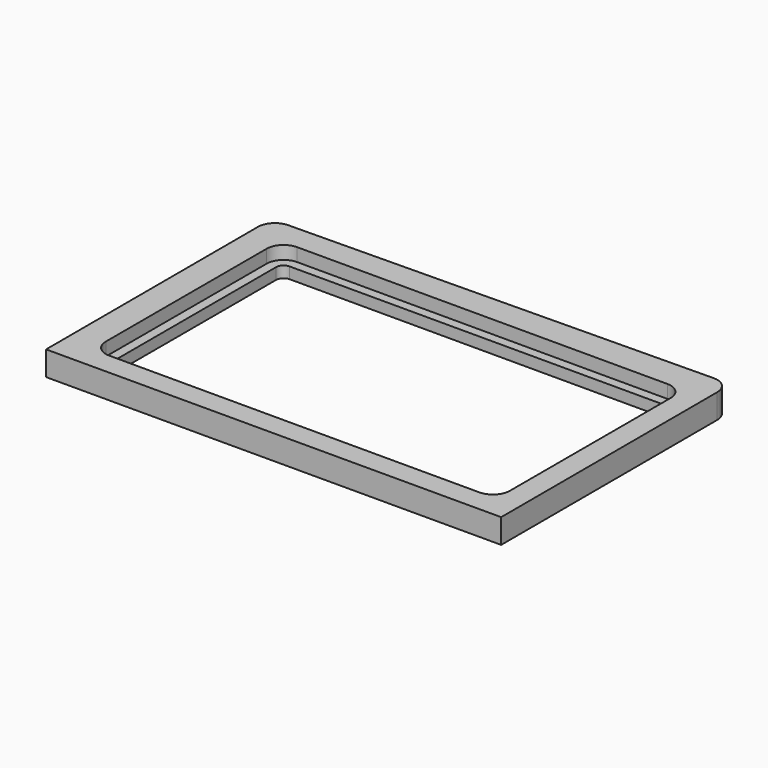
from build123d import *

# Parameters (mm, degrees)
F1_DEPTH = 13
F2_DEPTH = 6


with BuildPart() as f1:
    # F0 (on Top) → F1 (new body)
    with BuildSketch(Plane.XY):
        with BuildLine():
            Line((-128.226717, 65.178408), (-128.095499, -75.93241))
            Line((-128.095499, -75.93241), (113.904396, -75.707376))
            Line((113.904396, -75.707376), (113.770597, 68.1803))
            ThreePointArc((113.770597, 68.1803), (111.089038, 74.581091), (104.650671, 77.171132))
            Line((104.650671, 77.171132), (-119.34665, 74.185978))
            ThreePointArc((-119.34665, 74.185978), (-125.635881, 71.505215), (-128.226717, 65.178408))
        make_face()
        with BuildLine():
            Line((92.904501, -63.93241), (-104.095499, -63.93241))
            ThreePointArc((-104.095499, -63.93241), (-110.45946, -61.296371), (-113.095499, -54.93241))
            Line((-113.095499, -54.93241), (-113.095499, 52.06759))
            ThreePointArc((-113.095499, 52.06759), (-110.45946, 58.431551), (-104.095499, 61.06759))
            Line((-104.095499, 61.06759), (92.904501, 61.06759))
            ThreePointArc((92.904501, 61.06759), (99.268462, 58.431551), (101.904501, 52.06759))
            Line((101.904501, 52.06759), (101.904501, -54.93241))
            ThreePointArc((101.904501, -54.93241), (99.268462, -61.296371), (92.904501, -63.93241))
        make_face(mode=Mode.SUBTRACT)
    extrude(amount=F1_DEPTH)

    # F0 (on Top) → F2 (join)
    with BuildSketch(Plane.XY):
        with BuildLine():
            ThreePointArc((-113.095499, -54.93241), (-110.45946, -61.296371), (-104.095499, -63.93241))
            Line((-104.095499, -63.93241), (92.904501, -63.93241))
            ThreePointArc((92.904501, -63.93241), (99.268462, -61.296371), (101.904501, -54.93241))
            Line((101.904501, -54.93241), (101.904501, 52.06759))
            ThreePointArc((101.904501, 52.06759), (99.268462, 58.431551), (92.904501, 61.06759))
            Line((92.904501, 61.06759), (-104.095499, 61.06759))
            ThreePointArc((-104.095499, 61.06759), (-110.45946, 58.431551), (-113.095499, 52.06759))
            Line((-113.095499, 52.06759), (-113.095499, -54.93241))
        make_face()
        with BuildLine():
            ThreePointArc((96.904501, -54.93241), (95.732928, -57.760837), (92.904501, -58.93241))
            Line((92.904501, -58.93241), (-104.095499, -58.93241))
            ThreePointArc((-104.095499, -58.93241), (-106.923927, -57.760837), (-108.0955, -54.93241))
            Line((-108.0955, -54.93241), (-108.0955, 52.06759))
            ThreePointArc((-108.0955, 52.06759), (-106.923927, 54.896018), (-104.095499, 56.067591))
            Line((-104.095499, 56.067591), (92.904501, 56.067591))
            ThreePointArc((92.904501, 56.067591), (95.732928, 54.896018), (96.904501, 52.06759))
            Line((96.904501, 52.06759), (96.904501, -54.93241))
        make_face(mode=Mode.SUBTRACT)
    extrude(amount=F2_DEPTH)


solid = f1.part
